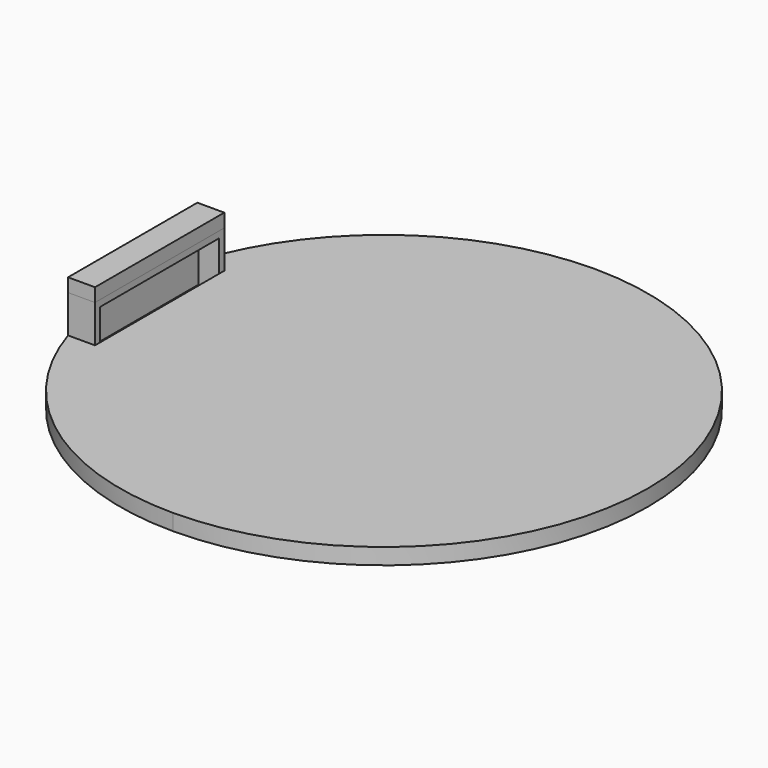
from build123d import *

# Parameters (mm, degrees)
F1_DEPTH = 3
F0_W     = 5
F0_H     = 15
F2_DEPTH = 10
F4_W     = 5
F4_H     = 30
F5_DEPTH = 2.5
F9_T     = -1.2


with BuildPart() as f1:
    # F0 (on Top) → F1 (new body)
    with BuildSketch(Plane.XY):
        with BuildLine():
            Line((-41.6476151588, 15), (-41.6476151588, 0))
            Line((-41.6476151588, 0), (-41.6476151588, -15))
            Line((-41.6476151588, -15), (-46.6476151588, -15))
            ThreePointArc((-46.6476151588, -15), (-28.8617393793, -39.5979797464), (0, -49))
            ThreePointArc((0, -49), (49, 0), (0, 49))
            ThreePointArc((0, 49), (-28.8617393793, 39.5979797464), (-46.6476151588, 15))
            Line((-46.6476151588, 15), (-41.6476151588, 15))
        make_face()
    extrude(amount=-F1_DEPTH)


with BuildPart() as f1b:
    # F0 (on Top) → F1, piece 2 (new body)
    with BuildSketch(Plane.XY):
        with BuildLine():
            Line((-46.6476151588, -15), (-46.6476151588, 0))
            Line((-46.6476151588, 0), (-49, 0))
            ThreePointArc((-49, 0), (-48.408331632, -7.591668368), (-46.6476151588, -15))
        make_face()
        with BuildLine():
            Line((-49, 0), (-46.6476151588, 0))
            Line((-46.6476151588, 0), (-46.6476151588, 15))
            ThreePointArc((-46.6476151588, 15), (-48.408331632, 7.591668368), (-49, 0))
        make_face()
    extrude(amount=-F1_DEPTH)


with BuildPart() as f2:
    # F0 (on Top) → F2 (new body)
    with BuildSketch(Plane.XY):
        with Locations((-44.1476151588, -7.5)):
            Rectangle(F0_W, F0_H)
        with Locations((-44.1476151588, 7.5)):
            Rectangle(F0_W, F0_H)
    extrude(amount=-F2_DEPTH)


with BuildPart() as f5:
    # F4 (on offset) → F5 (new body)
    with BuildSketch(Plane.XY.offset(-10)):
        with Locations((-44.1476151588, 0)):
            Rectangle(F4_W, F4_H)
    extrude(amount=-F5_DEPTH)


with BuildPart() as f6_1:
    # F6: instance of F1
    add(f1.part.mirror(Plane.XY))


with BuildPart() as f6_2:
    # F6: instance of F1b
    add(f1b.part.mirror(Plane.XY))


with BuildPart() as f6_3:
    # F6: instance of F5
    add(f5.part.mirror(Plane.XY))


with BuildPart() as f6_4:
    # F6: instance of F2
    add(f2.part.mirror(Plane.XY))

    # F9
    f9_openings = [f6_4.faces().sort_by_distance(p)[0] for p in [
        (-41.647615, 0, 5),
        (-44.147615, 0, 0),
    ]]
    offset(amount=F9_T, openings=f9_openings)


solid = Compound([f6_1.part, f6_2.part, f6_3.part, f6_4.part])
